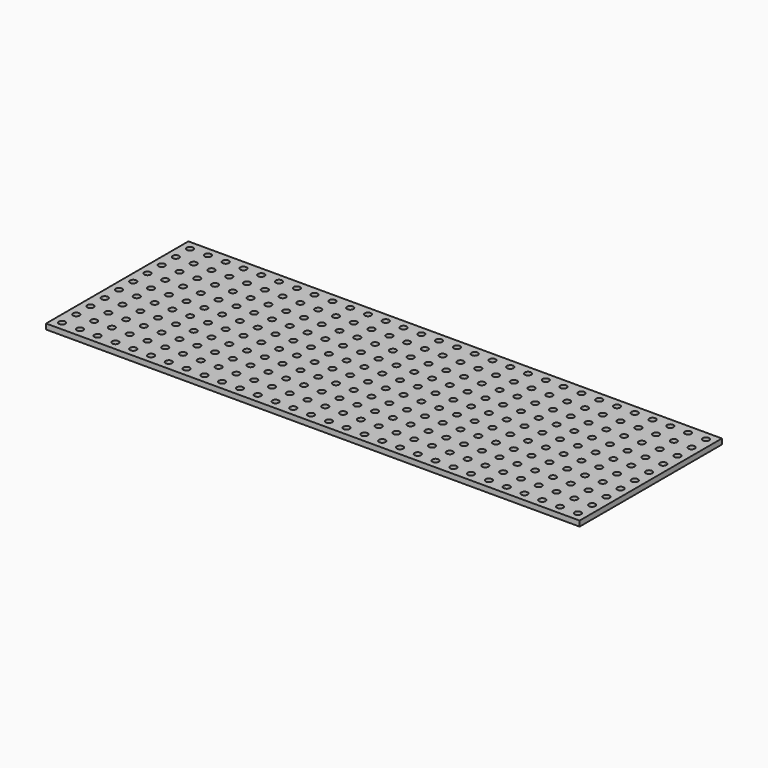
from build123d import *

# Parameters (mm, degrees)
CYLINDER_R     = 1.8
CYLINDER_DEPTH = 10
ARRAY_X_COUNT  = 30
ARRAY_X_PITCH  = 10
ARRAY_Y_COUNT  = 10
ARRAY_Y_PITCH  = 10
BOX_W          = 300
BOX_H          = 100
BOX_DEPTH      = 3


with BuildPart() as hole_array:
    # Cylinder → Cylinder (new body)
    with BuildSketch(Plane.XY):
        Circle(CYLINDER_R)
    extrude(amount=CYLINDER_DEPTH)

    # Array X: hole array ×30


with BuildPart() as hole_array_1:
    add(hole_array.part)
    with Locations(*[(i * ARRAY_X_PITCH, 0, 0) for i in range(1, ARRAY_X_COUNT)]):
        add(hole_array.part)

    # Array Y: hole array ×10


with BuildPart() as hole_array_2:
    add(hole_array_1.part)
    with Locations(*[(0, i * ARRAY_Y_PITCH, 0) for i in range(1, ARRAY_Y_COUNT)]):
        add(hole_array_1.part)


with BuildPart() as hole_array_3:
    # Array placement: moved
    add(hole_array_2.part.moved(Location((5, 5, 0))))


with BuildPart() as hole_plate_cut:
    # Box → Box (new body)
    with BuildSketch(Plane.XY):
        with Locations((150, 50)):
            Rectangle(BOX_W, BOX_H)
    extrude(amount=BOX_DEPTH)

    # Cut: cut hole array
    add(hole_array_3.part, mode=Mode.SUBTRACT)


solid = hole_plate_cut.part
